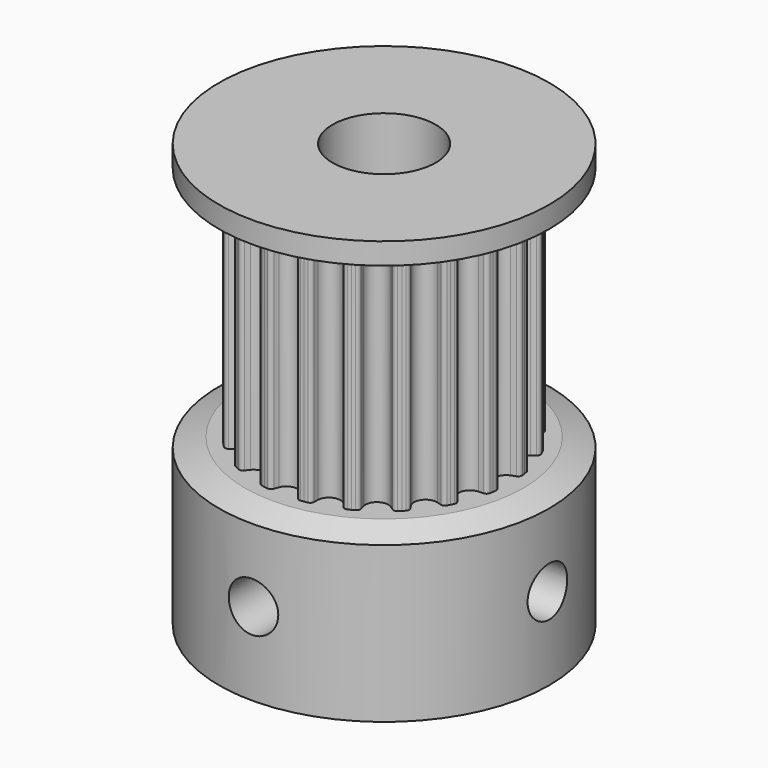
from build123d import *

# Parameters (mm, degrees)
F3_DEPTH  = 5.5
F4_COUNT  = 20
F8_D      = 5
F11_D     = 2.4
F11_DEPTH = 8.001
F12_D     = 2.4
F12_DEPTH = 8.0010001


with BuildPart() as f3:
    # F2 (on Top) → F3 (new body, symmetric)
    with BuildSketch(Plane.XY):
        with BuildLine():
            Line((0.8388325323, 5.2961801716), (0.9561583811, 6.0369464271))
            ThreePointArc((0.9561583811, 6.0369464271), (0.8769247137, 6.0489638832), (0.7975402939, 6.0599414595))
            ThreePointArc((0.7975402939, 6.0599414595), (0.673583382, 6.0329713178), (0.5951684067, 5.9332527328))
            ThreePointArc((0.5951684067, 5.9332527328), (0.5578349377, 5.8252126761), (0.5180414063, 5.7180543045))
            ThreePointArc((0.5180414063, 5.7180543045), (0.3142454474, 5.4597320978), (0, 5.3621977237))
            ThreePointArc((0, 5.3621977237), (-0.3142454474, 5.4597320978), (-0.5180414063, 5.7180543045))
            ThreePointArc((-0.5180414063, 5.7180543045), (-0.5578349377, 5.8252126761), (-0.5951684067, 5.9332527328))
            ThreePointArc((-0.5951684067, 5.9332527328), (-0.673583382, 6.0329713178), (-0.7975402939, 6.0599414595))
            ThreePointArc((-0.7975402939, 6.0599414595), (-0.8769247137, 6.0489638832), (-0.9561583811, 6.0369464271))
            Line((-0.9561583811, 6.0369464271), (-0.8388325323, 5.2961801716))
            Line((-0.8388325323, 5.2961801716), (0, 0))
            Line((0, 0), (0.8388325323, 5.2961801716))
        make_face()
        with BuildLine():
            Line((0.8388325323, 5.2961801716), (0.9561583811, 6.0369464271))
            ThreePointArc((0.9561583811, 6.0369464271), (0.8769247137, 6.0489638832), (0.7975402939, 6.0599414595))
            ThreePointArc((0.7975402939, 6.0599414595), (0.673583382, 6.0329713178), (0.5951684067, 5.9332527328))
            ThreePointArc((0.5951684067, 5.9332527328), (0.5578349377, 5.8252126761), (0.5180414063, 5.7180543045))
            ThreePointArc((0.5180414063, 5.7180543045), (0.3142454474, 5.4597320978), (0, 5.3621977237))
            ThreePointArc((0, 5.3621977237), (-0.3142454474, 5.4597320978), (-0.5180414063, 5.7180543045))
            ThreePointArc((-0.5180414063, 5.7180543045), (-0.5578349377, 5.8252126761), (-0.5951684067, 5.9332527328))
            ThreePointArc((-0.5951684067, 5.9332527328), (-0.673583382, 6.0329713178), (-0.7975402939, 6.0599414595))
            ThreePointArc((-0.7975402939, 6.0599414595), (-0.8769247137, 6.0489638832), (-0.9561583811, 6.0369464271))
            Line((-0.9561583811, 6.0369464271), (-0.8388325323, 5.2961801716))
            Line((-0.8388325323, 5.2961801716), (0, 0))
            Line((0, 0), (0.8388325323, 5.2961801716))
        make_face()
        with BuildLine():
            Line((0.8388325323, 5.2961801716), (0.9561583811, 6.0369464271))
            ThreePointArc((0.9561583811, 6.0369464271), (0.8769247137, 6.0489638832), (0.7975402939, 6.0599414595))
            ThreePointArc((0.7975402939, 6.0599414595), (0.673583382, 6.0329713178), (0.5951684067, 5.9332527328))
            ThreePointArc((0.5951684067, 5.9332527328), (0.5578349377, 5.8252126761), (0.5180414063, 5.7180543045))
            ThreePointArc((0.5180414063, 5.7180543045), (0.3142454474, 5.4597320978), (0, 5.3621977237))
            ThreePointArc((0, 5.3621977237), (-0.3142454474, 5.4597320978), (-0.5180414063, 5.7180543045))
            ThreePointArc((-0.5180414063, 5.7180543045), (-0.5578349377, 5.8252126761), (-0.5951684067, 5.9332527328))
            ThreePointArc((-0.5951684067, 5.9332527328), (-0.673583382, 6.0329713178), (-0.7975402939, 6.0599414595))
            ThreePointArc((-0.7975402939, 6.0599414595), (-0.8769247137, 6.0489638832), (-0.9561583811, 6.0369464271))
            Line((-0.9561583811, 6.0369464271), (-0.8388325323, 5.2961801716))
            Line((-0.8388325323, 5.2961801716), (0, 0))
            Line((0, 0), (0.8388325323, 5.2961801716))
        make_face()
    extrude(amount=F3_DEPTH, both=True)

    # F4: F3 ×20 about axis
    f4_axis = Axis((0, 0, 0), (0, 0, -1))


with BuildPart() as f3_1:
    add(f3.part)
    for i in range(1, F4_COUNT):
        add(f3.part.rotate(f4_axis, i * 360 / F4_COUNT))

    # F5 (on Front) → F6 (revolve)
    with BuildSketch(Plane.XZ):
        Polygon((6.7421977237, -5.5), (0, -5.5), (0, -13.5), (8, -13.5), (8, -5.9578025892), align=None)
        Polygon((0, 7), (0, 5.5), (6.7421977237, 5.5), (8, 5.9578025892), (8, 7), align=None)
    revolve(axis=Axis((0, 0, -9.5), (0, 0, 1)))

    # F8 (through all)
    with Locations(Plane(origin=(0, 0, -13.5), x_dir=(1, 0, 0), z_dir=(0, 0, -1))):
        with Locations((0, 0)):
            Hole(F8_D / 2)

    # F11 (through all, one way)
    with BuildSketch(Plane(origin=(0, 0, 0), x_dir=(1, 0, 0), z_dir=(0, 1, 0))):
        with Locations((0, 9.5)):
            Circle(F11_D / 2)
    extrude(amount=-F11_DEPTH, mode=Mode.SUBTRACT)

    # F12 (through all, one way)
    with BuildSketch(Plane(origin=(0, 0, 0), x_dir=(0, 1, 0), z_dir=(-1, 0, 0))):
        with Locations((0, 9.5)):
            Circle(F12_D / 2)
    extrude(amount=-F12_DEPTH, mode=Mode.SUBTRACT)


solid = f3_1.part
